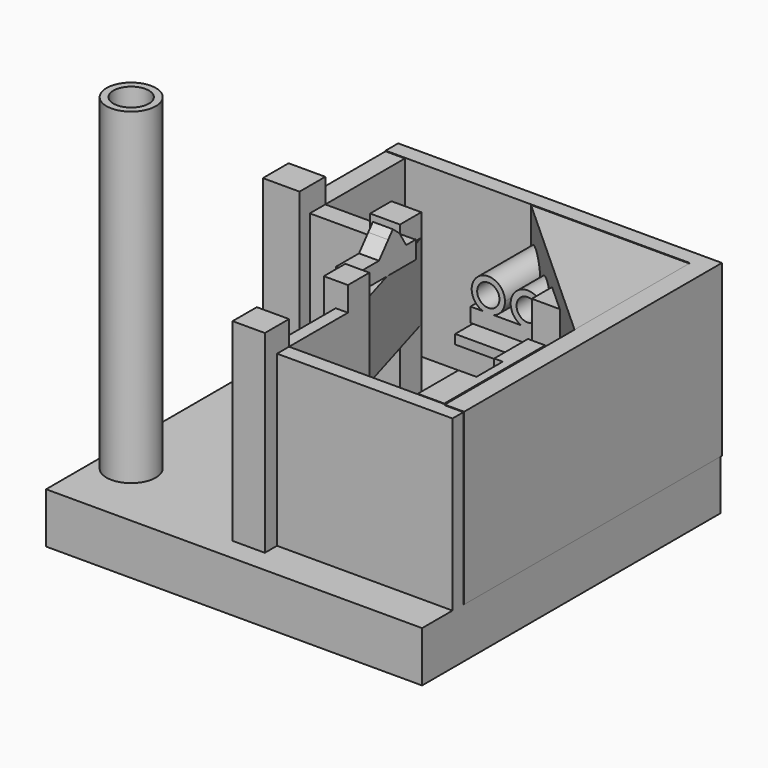
from build123d import *

# Parameters (mm, degrees)
F0_W          = 153.0245915055
F0_H          = 20.5490160733
F1_DEPTH      = 75.946
F1_DEPTH_BACK = 75.946
F3_DEPTH      = 68.834
F5_START      = -31.242
F4_W          = 31.1878696084
F4_H          = 3.7891790271
F4_W_2        = 30.604918953
F4_H_2        = 9.1814752668
F5_DEPTH      = 38.862
F7_START      = -39.37
F6_R          = 4.5342929644
F6_R_2        = 4.5529905845
F7_DEPTH      = 30.734
F8_W          = 7.8698322177
F8_H          = 124.7514784336
F9_DEPTH      = 69.088
F10_W         = 3.4977030009
F10_H         = 13.4078674018
F11_DEPTH     = 68.834
F12_W         = 4.9550831318
F12_H         = 39.0577064827
F12_W_2       = 39.0577036887
F12_H_2       = 7.869835943
F13_DEPTH     = 68.834
F15_START     = 38.608
F15_DEPTH     = 30.988
F16_W         = 9.7991945222
F16_H         = 10.9250182286
F16_W_2       = 12.1427290142
F16_H_2       = 10.8340159059
F16_W_3       = 14.9299055338
F16_H_3       = 13.1014734507
F16_W_4       = 13.116395101
F16_H_4       = 12.3132541776
F17_DEPTH     = 78.74
F19_DEPTH     = 8.128
F20_R         = 10.030835309
F20_R_2       = 7.2175731122
F21_DEPTH     = 133.096
F22_W         = 29.4703273103
F22_H         = 0.956825912
F23_DEPTH     = 0.254


with BuildPart() as f1:
    # F0 (on Front) → F1 (new body, two sides)
    with BuildSketch(Plane.XZ) as f1_sk:
        with Locations((-0.1457370818, -10.2745080367)):
            Rectangle(F0_W, F0_H)
    extrude(amount=F1_DEPTH)
    extrude(f1_sk.sketch, amount=-F1_DEPTH_BACK)

    # F2 (on face) → F3 (join)
    with BuildSketch(Plane.XY):
        Polygon((69.0796747804, 69.8083639145), (4.0806569159, 69.8083639145), (69.0796747804, 10.9303286299), align=None)
    extrude(amount=F3_DEPTH)

    # F4 (on Front) → F5 (join)
    with BuildSketch(Plane.XZ.offset(F5_START)):
        with Locations((19.6745917201, 36.4344269037)):
            Rectangle(F4_W, F4_H)
        Polygon((35.2685265243, 61.0640980303), (35.2685265243, 38.3290164173), (35.2685265243, 34.5398373902), (35.2685265243, 9.1814752668), (35.2685265243, 0), (68.7882006168, 0), (68.7882006168, 61.0640980303), align=None)
        with Locations((19.9660670478, 4.5907376334)):
            Rectangle(F4_W_2, F4_H_2)
    extrude(amount=-F5_DEPTH)

    # F6 (on Front) → F7 (join)
    with BuildSketch(Plane.XZ.offset(F7_START)):
        with BuildLine():
            ThreePointArc((13.2766587373, 44.7414778173), (16.5933676498, 47.2141890003), (17.8556101724, 51.153935492))
            ThreePointArc((17.8556101724, 51.153935492), (7.13631922, 56.6712374301), (8.875472686, 44.7414778173))
            Line((8.875472686, 44.7414778173), (13.2766587373, 44.7414778173))
        make_face()
        with Locations((11.0760657117, 51.153935492)):
            Circle(F6_R, mode=Mode.SUBTRACT)
        with BuildLine():
            Line((13.2766587373, 44.7414778173), (8.875472686, 44.7414778173))
            ThreePointArc((8.875472686, 44.7414778173), (11.0760657117, 44.3743910313), (13.2766587373, 44.7414778173))
        make_face()
        with BuildLine():
            ThreePointArc((13.2766587373, 44.7414778173), (11.0760657117, 44.3743910313), (8.875472686, 44.7414778173))
            Line((8.875472686, 44.7414778173), (3.7891815882, 44.7414778173))
            Line((3.7891815882, 44.7414778173), (3.7891815882, 38.9119684696))
            Line((3.7891815882, 38.9119684696), (17.7800003439, 38.9119684696))
            Line((17.7800003439, 38.9119684696), (17.7800003439, 44.7414778173))
            Line((17.7800003439, 44.7414778173), (13.2766587373, 44.7414778173))
        make_face()
        with BuildLine():
            Line((24.4199383292, 44.7414778173), (17.7800003439, 44.7414778173))
            Line((17.7800003439, 44.7414778173), (17.7800003439, 38.9119684696))
            Line((17.7800003439, 38.9119684696), (35.2685265243, 38.9119684696))
            Line((35.2685265243, 38.9119684696), (35.2685265243, 44.7414778173))
            Line((35.2685265243, 44.7414778173), (29.7944870558, 44.7414778173))
            ThreePointArc((29.7944870558, 44.7414778173), (27.1072126925, 44.2011621652), (24.4199383292, 44.7414778173))
        make_face()
        with BuildLine():
            Line((29.7944870558, 44.7414778173), (24.4199383292, 44.7414778173))
            ThreePointArc((24.4199383292, 44.7414778173), (27.1072126925, 44.2011621652), (29.7944870558, 44.7414778173))
        make_face()
        with BuildLine():
            ThreePointArc((34.0599860193, 51.153935492), (23.256430472, 56.9429365479), (24.4199383292, 44.7414778173))
            Line((24.4199383292, 44.7414778173), (29.7944870558, 44.7414778173))
            ThreePointArc((29.7944870558, 44.7414778173), (32.8962137483, 47.3031532716), (34.0599860193, 51.153935492))
        make_face()
        with Locations((27.1072126925, 51.153935492)):
            Circle(F6_R_2, mode=Mode.SUBTRACT)
    extrude(amount=-F7_DEPTH)

    # F8 (on Top) → F9 (join)
    with BuildSketch(Plane.XY):
        Polygon((-55.0888516009, 69.8083639145), (68.7882006168, 69.8083639145), (76.6580328345, 69.8083639145), (76.6580328345, 76.2208253145), (-55.0888516009, 76.2208253145), align=None)
        with Locations((72.7231167257, 7.4326246977)):
            Rectangle(F8_W, F8_H)
    extrude(amount=F9_DEPTH)

    # F10 (on Top) → F11 (join)
    with BuildSketch(Plane.XY):
        Polygon((67.9137706757, -19.9660658836), (67.9137706757, -2.7690164279), (60.9183646739, -2.7690164279), (60.9183646739, -19.9660658836), (64.4160676748, -19.9660658836), align=None)
        with Locations((66.1649191752, -26.6699995846)):
            Rectangle(F10_W, F10_H)
        Polygon((67.9137706757, -54.0686920285), (67.9137706757, -33.3739332855), (64.4160676748, -33.3739332855), (57.1291781962, -33.3739332855), (57.1291781962, -54.0686920285), align=None)
    extrude(amount=F11_DEPTH)

    # F12 (on Top) → F13 (join)
    with BuildSketch(Plane.XY):
        Polygon((76.366558671, -60.4811497033), (76.366558671, -54.3601661921), (4.9550831318, -54.3601661921), (0, -54.3601661921), (0, -60.4811497033), align=None)
        with Locations((2.4775415659, -34.8313129507)):
            Rectangle(F12_W, F12_H)
        Polygon((-47.2190156579, 75.9293437004), (-55.0888516009, 75.9293437004), (-55.0888516009, 21.4234422892), (-47.2190156579, 21.4234422892), (-47.2190156579, 29.2932782322), align=None)
        with Locations((-27.6901638135, 25.3583602607)):
            Rectangle(F12_W_2, F12_H_2)
    extrude(amount=F13_DEPTH)

    # F14 (on face) → F15 (join)
    with BuildSketch(Plane.XY.offset(F15_START)):
        Polygon((4.9550831318, -15.3024597093), (-8.1613119692, 29.2932782322), (-8.1613119692, 21.4234422892), (0, -15.3024597093), align=None)
    extrude(amount=F15_DEPTH)

    # F16 (on face) → F17 (join)
    with BuildSketch(Plane.XY):
        with Locations((0.0554858707, -18.9537699334)):
            Rectangle(F16_W, F16_H)
        with Locations((-14.2326764762, 23.8762702793)):
            Rectangle(F16_W_2, F16_H_2)
        with Locations((-54.6839684248, 22.7425415069)):
            Rectangle(F16_W_3, F16_H_3)
        with Locations((-1.6031144187, -60.5167932808)):
            Rectangle(F16_W_4, F16_H_4)
    extrude(amount=F17_DEPTH)

    # F18 (on Right) → F19 (join)
    with BuildSketch(Plane.YZ):
        Polygon((15.8831458539, 70.4239010811), (16.1645952612, 76.8972411752), (11.3799506798, 76.8972411752), (8.0025549978, 82.5262367725), (4.6251597814, 85.3407308459), (2.2797496705, 82.5262367725), (-2.4110814556, 76.8972411752), (-14.2319686711, 76.8972411752), (-14.2319686711, 70.4239010811), align=None)
    extrude(amount=-F19_DEPTH)

    # F20 (on Top) → F21 (join)
    with BuildSketch(Plane.XY):
        with Locations((-64.4248649478, -47.9438453913)):
            Circle(F20_R)
        with Locations((-64.4248649478, -47.9438453913)):
            Circle(F20_R_2, mode=Mode.SUBTRACT)
    extrude(amount=F21_DEPTH)

    # F22 (on Right) → F23 (join)
    with BuildSketch(Plane.YZ):
        Polygon((16.2943303585, 69.6600824594), (16.2943303585, 76.9319757819), (15.2609543875, 76.9319757819), (15.2609543875, 70.6169083714), (15.2609543875, 69.6600824594), align=None)
        with Locations((0.5257907324, 70.1384954154)):
            Rectangle(F22_W, F22_H)
    extrude(amount=-F23_DEPTH)


solid = f1.part
